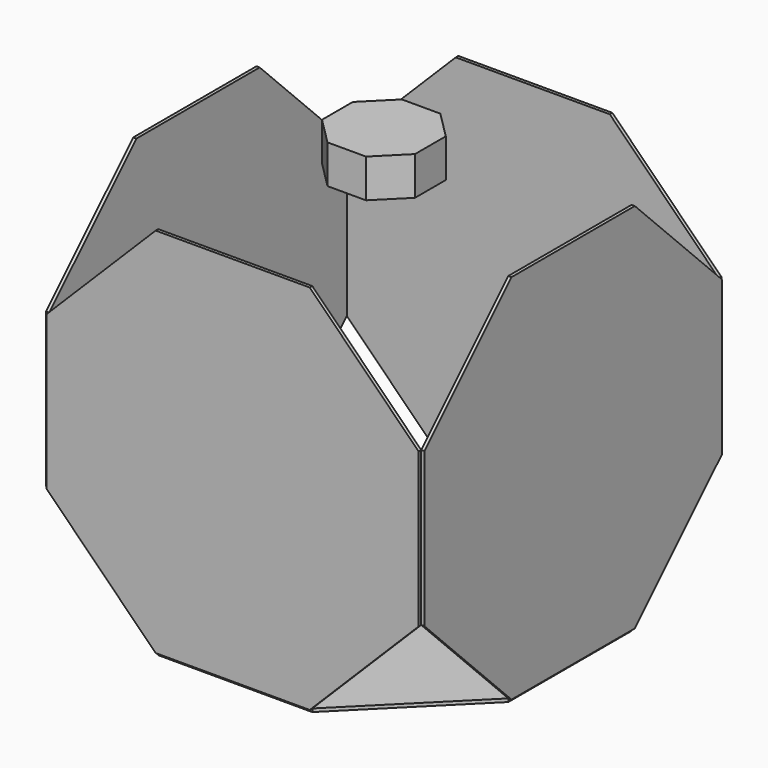
from build123d import *

# Parameters (mm, degrees)
F1_DEPTH  = 25
F3_DEPTH  = 25
F5_DEPTH  = 25
F7_DEPTH  = 25
F9_DEPTH  = 25
F11_DEPTH = 300


with BuildPart() as f1:
    # F0 (on Top) → F1 (new body)
    with BuildSketch(Plane.XY):
        Polygon((-183.246235, -424.264069), (665.281903, 424.264069), (665.281903, 1624.264069), (-183.246235, 2472.792206), (-1383.246235, 2472.792206), (-2231.774372, 1624.264069), (-2231.774372, 424.264069), (-1383.246235, -424.264069), align=None)
    extrude(amount=F1_DEPTH)


with BuildPart() as f3:
    # F2 (on face) → F3 (new body)
    with BuildSketch(Plane.XZ.offset(424.264069)):
        Polygon((-183.246235, 25), (-183.246235, 24.971863), (665.281903, 873.5), (665.281903, 2073.5), (-183.246235, 2922.028137), (-1383.246235, 2922.028137), (-2231.774372, 2073.5), (-2231.774372, 873.5), (-1383.246235, 24.971863), (-1383.246235, 25), align=None)
    extrude(amount=F3_DEPTH)


with BuildPart() as f5:
    # F4 (on face) → F5 (new body)
    with BuildSketch(Plane(origin=(0, 2472.792206, 0), x_dir=(-1, 0, 0), z_dir=(0, 1, 0))):
        Polygon((1383.246235, 24.971863), (2231.774372, 873.5), (2231.774372, 2073.5), (1383.246235, 2922.028137), (183.246235, 2922.028137), (-665.281903, 2073.5), (-665.281903, 873.5), (183.246235, 24.971863), (183.246235, 25), (1383.246235, 25), align=None)
    extrude(amount=F5_DEPTH)


with BuildPart() as f7:
    # F6 (on face) → F7 (new body)
    with BuildSketch(Plane.YZ.offset(665.281903)):
        Polygon((1624.264069, 25), (1624.264069, 24.971863), (2472.792206, 873.5), (2472.792206, 2073.5), (1624.264069, 2922.028137), (424.264069, 2922.028137), (-424.264069, 2073.5), (-424.264069, 873.5), (424.264069, 24.971863), (424.264069, 25), align=None)
    extrude(amount=F7_DEPTH)


with BuildPart() as f9:
    # F8 (on face) → F9 (new body)
    with BuildSketch(Plane(origin=(-2231.774372, 0, 0), x_dir=(0, -1, 0), z_dir=(-1, 0, 0))):
        Polygon((-424.264069, 25), (-424.264069, 24.971863), (424.264069, 873.5), (424.264069, 2073.5), (-424.264069, 2922.028137), (-1624.264069, 2922.028137), (-2472.792206, 2073.5), (-2472.792206, 873.5), (-1624.264069, 24.971863), (-1624.264069, 25), align=None)
    extrude(amount=F9_DEPTH)


with BuildPart() as f11:
    # F10 (on face) → F11 (new body)
    with BuildSketch(Plane.XY.offset(2922.028137)):
        Polygon((-933.246235, 661.255579), (-633.246235, 661.255579), (-421.1142, 873.387613), (-421.1142, 1173.387613), (-633.246235, 1385.519648), (-933.246235, 1385.519648), (-1145.378269, 1173.387613), (-1145.378269, 873.387613), align=None)
    extrude(amount=F11_DEPTH)


solid = Compound([f1.part, f3.part, f5.part, f7.part, f9.part, f11.part])
